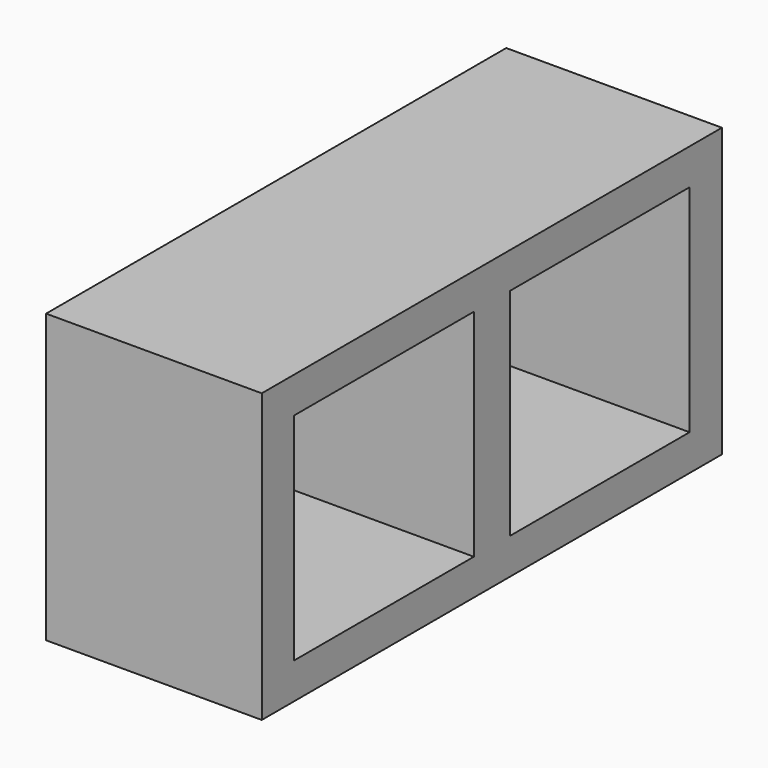
from build123d import *

# Parameters (mm, degrees)
F0_W     = 406.4
F0_H     = 203.2
F0_W_2   = 158.75
F0_H_2   = 152.4
F1_DEPTH = 152.4
F2_DEPTH = 152.4


with BuildPart() as f1:
    # F0 (on Right) → F1 (new body)
    with BuildSketch(Plane.YZ):
        Rectangle(F0_W, F0_H)
        with Locations((-95.25, 0)):
            Rectangle(F0_W_2, F0_H_2, mode=Mode.SUBTRACT)
        with Locations((95.25, 0)):
            Rectangle(F0_W_2, F0_H_2, mode=Mode.SUBTRACT)
    extrude(amount=-F1_DEPTH)

    # F0 (on Right) → F2 (cut)
    with BuildSketch(Plane.YZ):
        with Locations((-95.25, 0)):
            Rectangle(F0_W_2, F0_H_2)
        with Locations((95.25, 0)):
            Rectangle(F0_W_2, F0_H_2)
    extrude(amount=-F2_DEPTH, mode=Mode.SUBTRACT)


solid = f1.part
